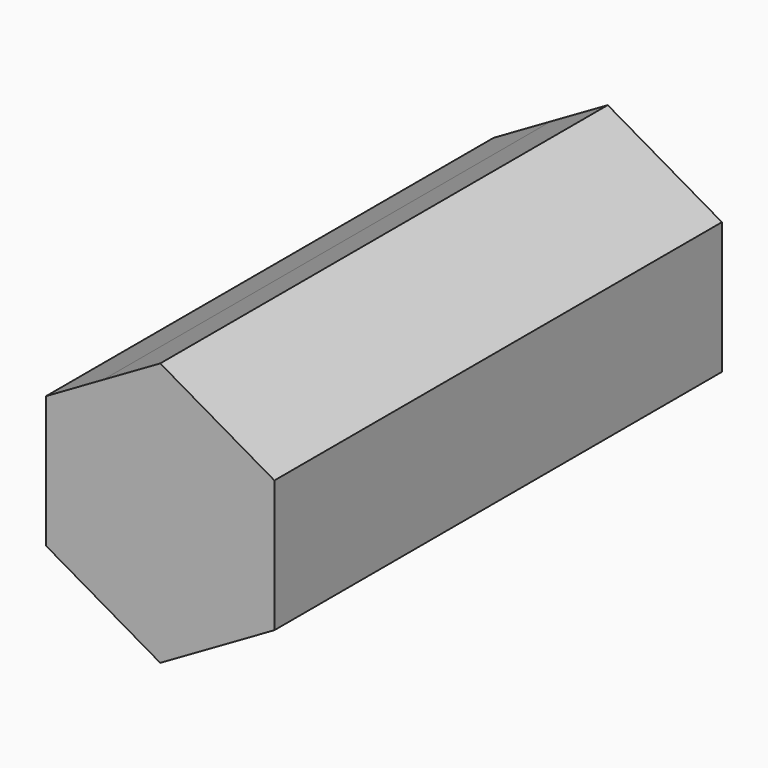
from build123d import *

# Parameters (mm, degrees)
F1_DEPTH = 24.5


with BuildPart() as f1:
    # F0 (on Front) → F1 (new body, symmetric)
    with BuildSketch(Plane.XZ):
        with BuildLine():
            ThreePointArc((4.999999728, -8.6602541949), (8.6602539593, -5.000000136), (10, 0))
            ThreePointArc((10, 0), (8.6602540403, 4.9999999958), (5.0000000084, 8.660254033))
            ThreePointArc((5.0000000084, 8.660254033), (8.63e-08, 10), (-4.9999998589, 8.6602541193))
            ThreePointArc((-4.9999998589, 8.6602541193), (-8.6602539971, 5.0000000706), (-10, 0))
            ThreePointArc((-10, 0), (-8.660253998, -5.000000069), (-4.9999998621, -8.6602541175))
            ThreePointArc((-4.9999998621, -8.6602541175), (-7.74e-08, -10), (4.999999728, -8.6602541949))
        make_face()
        with BuildLine():
            Line((10, -5.7735026919), (10, 0))
            ThreePointArc((10, 0), (8.6602539593, -5.000000136), (4.999999728, -8.6602541949))
            Line((4.999999728, -8.6602541949), (10, -5.7735026919))
        make_face()
        with BuildLine():
            ThreePointArc((5.0000000084, 8.660254033), (8.6602540403, 4.9999999958), (10, 0))
            Line((10, 0), (10, 5.7735026919))
            Line((10, 5.7735026919), (5.0000000084, 8.660254033))
        make_face()
        with BuildLine():
            ThreePointArc((-4.9999998589, 8.6602541193), (8.63e-08, 10), (5.0000000084, 8.660254033))
            Line((5.0000000084, 8.660254033), (0, 11.5470053838))
            Line((0, 11.5470053838), (-4.9999998589, 8.6602541193))
        make_face()
        with BuildLine():
            Line((0, -11.5470053838), (4.999999728, -8.6602541949))
            ThreePointArc((4.999999728, -8.6602541949), (-7.74e-08, -10), (-4.9999998621, -8.6602541175))
            Line((-4.9999998621, -8.6602541175), (0, -11.5470053838))
        make_face()
        with BuildLine():
            ThreePointArc((-10, 0), (-8.6602539971, 5.0000000706), (-4.9999998589, 8.6602541193))
            Line((-4.9999998589, 8.6602541193), (-10, 5.7735026919))
            Line((-10, 5.7735026919), (-10, 0))
        make_face()
        with BuildLine():
            Line((-10, -5.7735026919), (-4.9999998621, -8.6602541175))
            ThreePointArc((-4.9999998621, -8.6602541175), (-8.660253998, -5.000000069), (-10, 0))
            Line((-10, 0), (-10, -5.7735026919))
        make_face()
    extrude(amount=F1_DEPTH, both=True)


solid = f1.part
